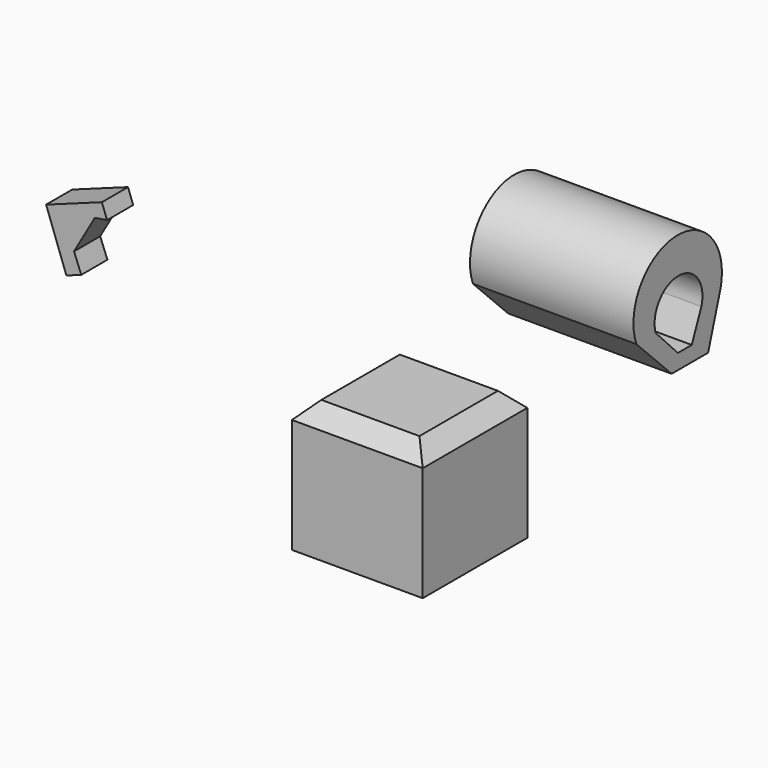
from build123d import *

# Parameters (mm, degrees)
F0_W     = 40
F0_H     = 40
F1_DEPTH = 40
F3_DEPTH = 10
F5_DEPTH = 50
F6_SIZE  = 5


with BuildPart() as f1:
    # F0 (on Front) → F1 (new body)
    with BuildSketch(Plane.XZ):
        with Locations((20, 20)):
            Rectangle(F0_W, F0_H)
    extrude(amount=F1_DEPTH)

    # F6
    f6_edges = [f1.edges().sort_by_distance(p)[0] for p in [
        (40, -20, 40),
        (0, -20, 40),
        (20, 0, 40),
        (20, -40, 40),
    ]]
    chamfer(f6_edges, length=F6_SIZE)


with BuildPart() as f3:
    # F2 (on face) → F3 (new body)
    with BuildSketch(Plane.XZ.offset(40)):
        Polygon((-68.993416, 51.453922), (-64.431734, 53.112716), (-66.651583, 58.714803), (-60.282885, 69.82958), (-56.561089, 70.403017), (-58.133099, 74.726041), (-75.199317, 68.52014), align=None)
    extrude(amount=-F3_DEPTH)


with BuildPart() as f5:
    # F4 (on Right) → F5 (new body)
    with BuildSketch(Plane.YZ):
        with BuildLine():
            Line((54.050408, 43.545064), (60.786664, 43.545064))
            ThreePointArc((60.786664, 43.545064), (44.988547, 66.494268), (29.190429, 43.545064))
            Line((29.190429, 43.545064), (36.568228, 43.545064))
            ThreePointArc((36.568228, 43.545064), (45.309318, 55.409585), (54.050408, 43.545064))
        make_face()
        Polygon((56.616601, 30.072557), (60.786664, 43.545064), (54.050408, 43.545064), (50.361507, 34.723781), (45.068741, 34.723781), (36.568228, 43.545064), (29.190429, 43.545064), (42.662933, 30.072557), align=None)
    extrude(amount=F5_DEPTH)


solid = Compound([f1.part, f3.part, f5.part])
